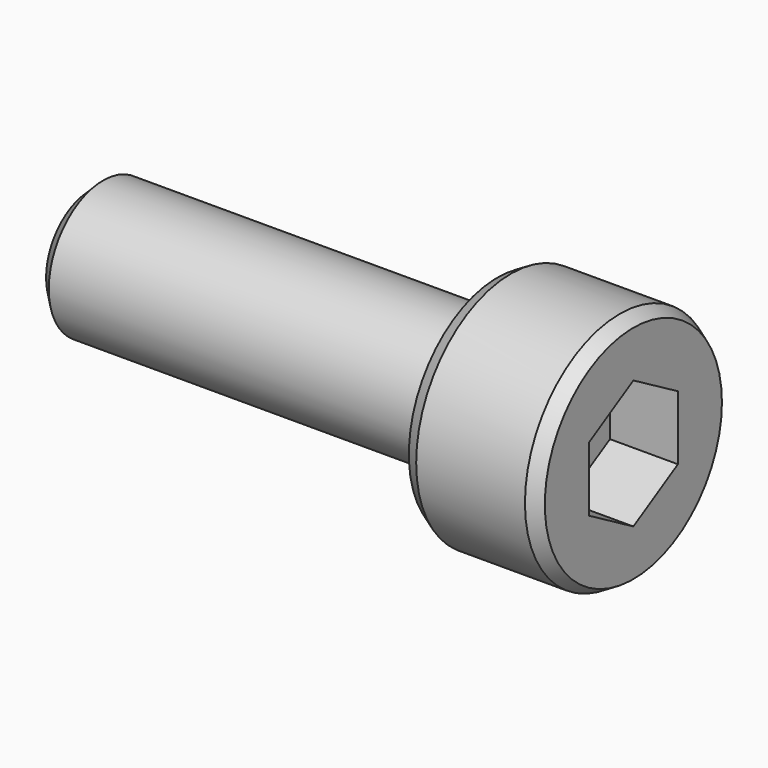
from build123d import *

# Parameters (mm, degrees)
F0_R     = 4.36
F1_DEPTH = 5
F2_SIZE2 = 0.288675
F2_SIZE  = 0.5
F4_DEPTH = 2.5
F5_R     = 2.5
F6_DEPTH = 15
F7_SIZE  = 0.5


with BuildPart() as f1:
    # F0 (on Right) → F1 (new body)
    with BuildSketch(Plane.YZ):
        Circle(F0_R)
    extrude(amount=-F1_DEPTH)

    # F2
    f2_edges = [f1.edges().sort_by_distance(p)[0] for p in [
        (0, -4.36, 0),
        (-5, -4.36, 0),
    ]]
    chamfer(f2_edges, length=F2_SIZE, length2=F2_SIZE2)

    # F3 (on face) → F4 (cut)
    with BuildSketch(Plane.YZ):
        Polygon((0, -2.364249), (2.0475, -1.182125), (2.0475, 1.182125), (0, 2.364249), (-2.0475, 1.182125), (-2.0475, -1.182125), align=None)
    extrude(amount=-F4_DEPTH, mode=Mode.SUBTRACT)

    # F5 (on face) → F6 (join)
    with BuildSketch(Plane(origin=(-5, 0, 0), x_dir=(0, -1, 0), z_dir=(-1, 0, 0))):
        Circle(F5_R)
    extrude(amount=F6_DEPTH)

    # F7
    f7_edges = [f1.edges().sort_by_distance(p)[0] for p in [
        (-20, 2.5, 0),
    ]]
    chamfer(f7_edges, length=F7_SIZE)


solid = f1.part
